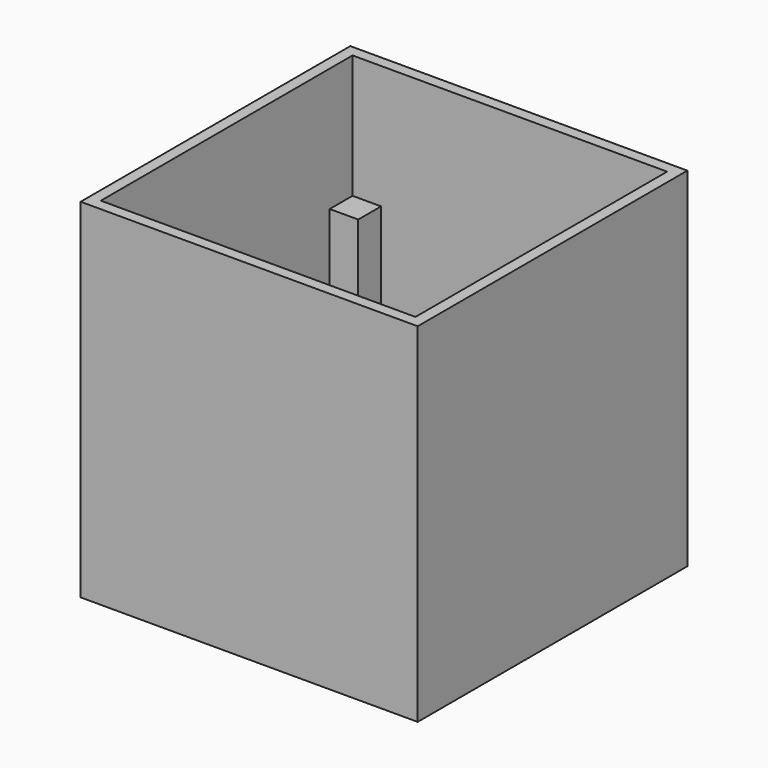
from build123d import *

# Parameters (mm, degrees)
F1_DEPTH = 20
F0_W     = 600
F0_H     = 600
F2_DEPTH = 620
F0_W_2   = 50.8
F0_H_2   = 101.6
F0_W_3   = 101.6
F0_H_3   = 50.8
F3_DEPTH = 220
F0_H_4   = 203.2
F0_W_4   = 203.2
F4_DEPTH = 70.8
F5_DEPTH = 400


with BuildPart() as f1:
    # F0 (on Top) → F1 (new body)
    with BuildSketch(Plane.XY):
        Polygon((26, 280), (-229.2, 280), (-229.2, 229.2), (-229.2, 26), (-280, 26), (-280, -229.2), (-229.2, -229.2), (-26, -229.2), (-26, -280), (229.2, -280), (229.2, -229.2), (229.2, -26), (280, -26), (280, 229.2), (229.2, 229.2), (26, 229.2), align=None)
        Polygon((-130.8, 130.8), (-80, 130.8), (21.6, 130.8), (130.8, 130.8), (130.8, 80), (130.8, -21.6), (130.8, -130.8), (80, -130.8), (-21.6, -130.8), (-130.8, -130.8), (-130.8, -80), (-130.8, 21.6), align=None, mode=Mode.SUBTRACT)
        Polygon((21.6, 80), (-80, 80), (-80, 130.8), (-130.8, 130.8), (-130.8, 21.6), (-80, 21.6), (-80, -80), (-130.8, -80), (-130.8, -130.8), (-21.6, -130.8), (-21.6, -80), (80, -80), (80, -130.8), (130.8, -130.8), (130.8, -21.6), (80, -21.6), (80, 80), (130.8, 80), (130.8, 130.8), (21.6, 130.8), align=None)
    extrude(amount=F1_DEPTH)

    # F0 (on Top) → F2 (join)
    with BuildSketch(Plane.XY):
        Rectangle(F0_W, F0_H)
        Polygon((-280, 229.2), (-280, 280), (-229.2, 280), (26, 280), (229.2, 280), (280, 280), (280, 229.2), (280, -26), (280, -229.2), (280, -280), (229.2, -280), (-26, -280), (-229.2, -280), (-280, -280), (-280, -229.2), (-280, 26), align=None, mode=Mode.SUBTRACT)
    extrude(amount=F2_DEPTH)

    # F0 (on Top) → F3 (join)
    with BuildSketch(Plane.XY):
        with Locations((-105.4, -29.2)):
            Rectangle(F0_W_2, F0_H_2)
        with Locations((-29.2, 105.4)):
            Rectangle(F0_W_3, F0_H_3)
        with Locations((105.4, 29.2)):
            Rectangle(F0_W_2, F0_H_2)
        with Locations((29.2, -105.4)):
            Rectangle(F0_W_3, F0_H_3)
    extrude(amount=F3_DEPTH)

    # F0 (on Top) → F4 (join)
    with BuildSketch(Plane.XY):
        with Locations((-254.6, 127.6)):
            Rectangle(F0_W_2, F0_H_4)
        with Locations((254.6, -127.6)):
            Rectangle(F0_W_2, F0_H_4)
        with Locations((-127.6, -254.6)):
            Rectangle(F0_W_4, F0_H_3)
        with Locations((127.6, 254.6)):
            Rectangle(F0_W_4, F0_H_3)
    extrude(amount=F4_DEPTH)

    # F0 (on Top) → F5 (join)
    with BuildSketch(Plane.XY):
        with Locations((-254.6, 254.6)):
            Rectangle(F0_W_2, F0_H_3)
        with Locations((-254.6, -254.6)):
            Rectangle(F0_W_2, F0_H_3)
        with Locations((254.6, -254.6)):
            Rectangle(F0_W_2, F0_H_3)
        with Locations((254.6, 254.6)):
            Rectangle(F0_W_2, F0_H_3)
    extrude(amount=F5_DEPTH)


solid = f1.part
